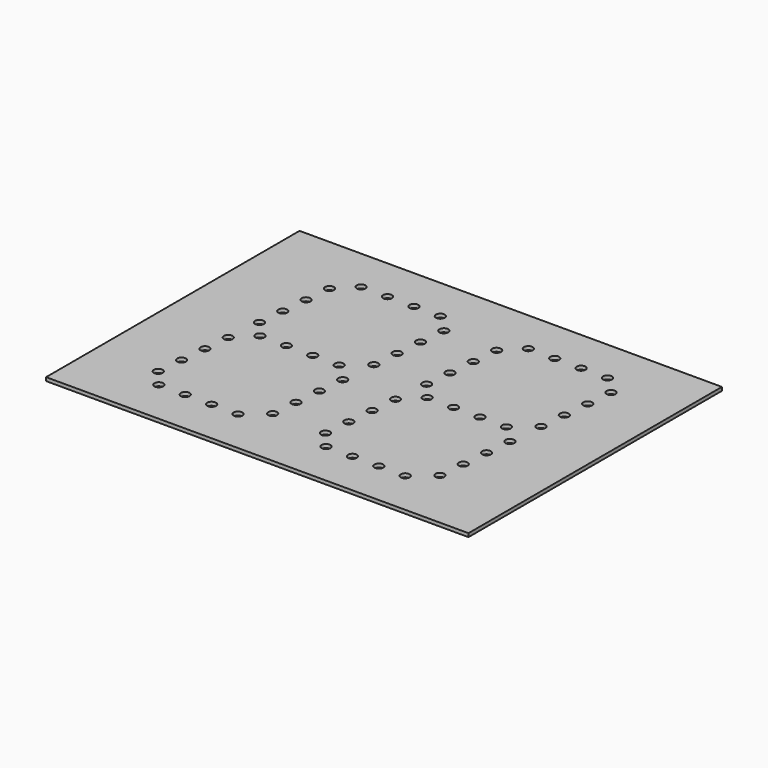
from build123d import *

# Parameters (mm, degrees)
F0_W     = 240
F0_H     = 180
F1_DEPTH = 1
F2_R     = 2.5
F3_DEPTH = 2.001


with BuildPart() as f1:
    # F0 (on Top) → F1 (new body, symmetric)
    with BuildSketch(Plane.XY):
        Rectangle(F0_W, F0_H)
    extrude(amount=F1_DEPTH, both=True)

    # F2 (on face) → F3 (cut, through all)
    with BuildSketch(Plane.XY.offset(1)):
        with Locations((-20, 65)):
            Circle(F2_R)
        with Locations((-25.665123, 0.247345)):
            Circle(F2_R)
        with Locations((-31.330247, -64.505311)):
            Circle(F2_R)
        with Locations((-35, 65)):
            Circle(F2_R)
        with Locations((-40.665123, 0.247345)):
            Circle(F2_R)
        with Locations((-46.330247, -64.505311)):
            Circle(F2_R)
        with Locations((-50, 65)):
            Circle(F2_R)
        with Locations((-55.665123, 0.247345)):
            Circle(F2_R)
        with Locations((-61.330247, -64.505311)):
            Circle(F2_R)
        with Locations((-65, 65)):
            Circle(F2_R)
        with Locations((-70.665123, 0.247345)):
            Circle(F2_R)
        with Locations((-76.330247, -64.505311)):
            Circle(F2_R)
        with Locations((-75, 55)):
            Circle(F2_R)
        with Locations((-76.307336, 40.05708)):
            Circle(F2_R)
        with Locations((-77.614672, 25.114159)):
            Circle(F2_R)
        with Locations((-78.922008, 10.171239)):
            Circle(F2_R)
        with Locations((-80.665123, -9.752655)):
            Circle(F2_R)
        with Locations((-81.972459, -24.695576)):
            Circle(F2_R)
        with Locations((-83.279796, -39.638496)):
            Circle(F2_R)
        with Locations((-84.587132, -54.581417)):
            Circle(F2_R)
        with Locations((-10, 55)):
            Circle(F2_R)
        with Locations((-11.307336, 40.05708)):
            Circle(F2_R)
        with Locations((-12.614672, 25.114159)):
            Circle(F2_R)
        with Locations((-13.922008, 10.171239)):
            Circle(F2_R)
        with Locations((-15.665123, -9.752655)):
            Circle(F2_R)
        with Locations((-16.972459, -24.695576)):
            Circle(F2_R)
        with Locations((-18.279796, -39.638496)):
            Circle(F2_R)
        with Locations((-19.587132, -54.581417)):
            Circle(F2_R)
        with Locations((30, 65)):
            Circle(F2_R)
        with Locations((39.334877, 0.247345)):
            Circle(F2_R)
        with Locations((16.077992, 10.171239)):
            Circle(F2_R)
        with Locations((24.334877, 0.247345)):
            Circle(F2_R)
        with Locations((78.027541, -24.695576)):
            Circle(F2_R)
        with Locations((81.077992, 10.171239)):
            Circle(F2_R)
        with Locations((79.334877, -9.752655)):
            Circle(F2_R)
        with Locations((85, 55)):
            Circle(F2_R)
        with Locations((45, 65)):
            Circle(F2_R)
        with Locations((48.669753, -64.505311)):
            Circle(F2_R)
        with Locations((20, 55)):
            Circle(F2_R)
        with Locations((54.334877, 0.247345)):
            Circle(F2_R)
        with Locations((60, 65)):
            Circle(F2_R)
        with Locations((75, 65)):
            Circle(F2_R)
        with Locations((69.334877, 0.247345)):
            Circle(F2_R)
        with Locations((83.692664, 40.05708)):
            Circle(F2_R)
        with Locations((18.669753, -64.505311)):
            Circle(F2_R)
        with Locations((13.027541, -24.695576)):
            Circle(F2_R)
        with Locations((17.385328, 25.114159)):
            Circle(F2_R)
        with Locations((33.669753, -64.505311)):
            Circle(F2_R)
        with Locations((14.334877, -9.752655)):
            Circle(F2_R)
        with Locations((82.385328, 25.114159)):
            Circle(F2_R)
        with Locations((76.720204, -39.638496)):
            Circle(F2_R)
        with Locations((11.720204, -39.638496)):
            Circle(F2_R)
        with Locations((63.669753, -64.505311)):
            Circle(F2_R)
        with Locations((75.412868, -54.581417)):
            Circle(F2_R)
        with Locations((18.692664, 40.05708)):
            Circle(F2_R)
        with Locations((10.412868, -54.581417)):
            Circle(F2_R)
    extrude(amount=-F3_DEPTH, mode=Mode.SUBTRACT)


solid = f1.part
